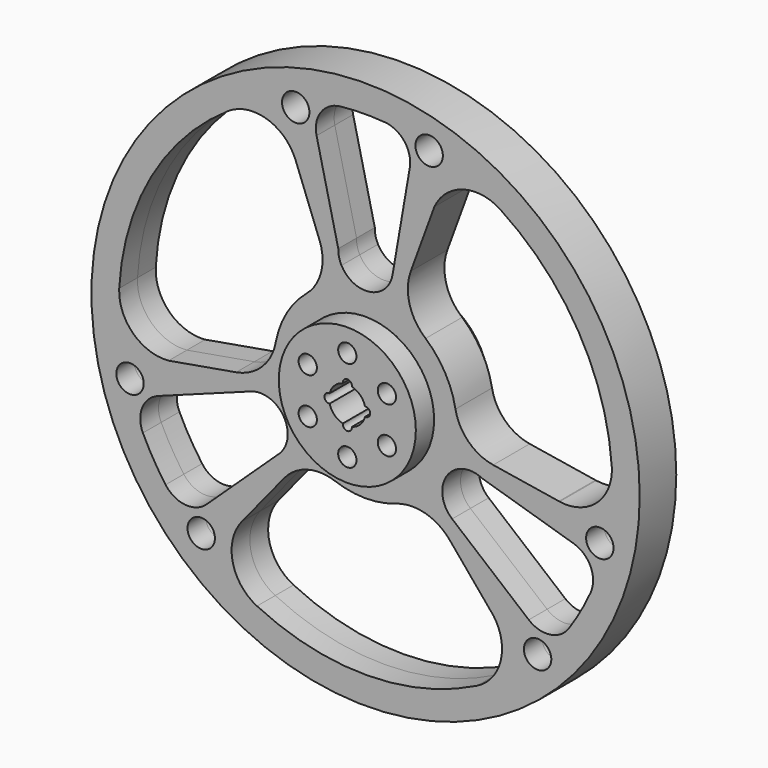
from build123d import *

# Parameters (mm, degrees)
F0_R     = 1524
F0_R_2   = 76.2
F0_R_3   = 381
F1_DEPTH = 127
F0_R_4   = 50.8
F2_DEPTH = 254


with BuildPart() as f1:
    # F0 (on Front) → F1 (new body, symmetric)
    with BuildSketch(Plane.XZ):
        Circle(F0_R)
        with Locations((-913.7882791616, -976.0271380313)):
            Circle(F0_R_2, mode=Mode.SUBTRACT)
        with BuildLine():
            Line((-1153.0000991885, -382.0383786569), (-637.8959878509, -192.4014305637))
            ThreePointArc((-637.8959878509, -192.4014305637), (-457.0555696443, -252.9952118294), (-476.9770278298, -442.6738840331))
            ThreePointArc((-476.9770278298, -442.6738840331), (-480.8973671556, -446.4915773818), (-484.9522358945, -450.1660681551))
            Line((-484.9522358945, -450.1660681551), (-883.9591266607, -825.0068330969))
            ThreePointArc((-883.9591266607, -825.0068330969), (-1002.8402419306, -865.6379881525), (-1111.8443054894, -803.1742029914))
            ThreePointArc((-1111.8443054894, -803.1742029914), (-1179.6622045577, -699.7739943281), (-1237.8919513009, -590.6861069167))
            ThreePointArc((-1237.8919513009, -590.6861069167), (-1241.5115221698, -467.6197173586), (-1153.0000991885, -382.0383786569))
        make_face(mode=Mode.SUBTRACT)
        with Locations((-1309.5730875171, -348.1148742014)):
            Circle(F0_R_2, mode=Mode.SUBTRACT)
        with BuildLine():
            ThreePointArc((620.3459899279, -1223.2977612913), (9.3222607446, -1371.5683196453), (-603.6604512768, -1231.6170750539))
            ThreePointArc((-603.6604512768, -1231.6170750539), (-738.7746568168, -1060.2882924915), (-689.7021623495, -847.6823411172))
            ThreePointArc((-689.7021623495, -847.6823411172), (-688.3005999681, -845.9440823447), (-686.8837042593, -844.2182992703))
            Line((-686.8837042593, -844.2182992703), (-453.4108080554, -557.2671165057))
            ThreePointArc((-453.4108080554, -557.2671165057), (-324.704195778, -472.9319451606), (-170.9247530325, -478.3813633502))
            ThreePointArc((-170.9247530325, -478.3813633502), (-3.2290207935, -507.9897375191), (164.8295547947, -480.5155750506))
            ThreePointArc((164.8295547947, -480.5155750506), (329.3174151887, -472.2872831018), (468.2689097092, -560.6979339074))
            Line((468.2689097092, -560.6979339074), (712.5486648746, -853.1947261923))
            ThreePointArc((712.5486648746, -853.1947261923), (751.0159442205, -1059.3145732279), (620.3459899279, -1223.2977612913))
        make_face(mode=Mode.SUBTRACT)
        with Locations((956.2628682522, -960.0661248015)):
            Circle(F0_R_2, mode=Mode.SUBTRACT)
        with BuildLine():
            ThreePointArc((1251.4914161996, -561.2983121112), (1195.8531582748, -671.7304398673), (1130.4951499029, -776.7028235085))
            ThreePointArc((1130.4951499029, -776.7028235085), (1025.7263156279, -841.3706586108), (907.3549907317, -807.5081871347))
            Line((907.3549907317, -807.5081871347), (481.1232000729, -452.5278699292))
            ThreePointArc((481.1232000729, -452.5278699292), (428.3503888965, -360.6203892324), (448.26366908, -256.5270855102))
            ThreePointArc((448.26366908, -256.5270855102), (511.6872076627, -198.5230648264), (596.4093179928, -184.0601576825))
            ThreePointArc((596.4093179928, -184.0601576825), (622.672411721, -189.518002639), (647.5717696697, -199.495985275))
            Line((647.5717696697, -199.495985275), (1156.456439088, -353.0276430469))
            ThreePointArc((1156.456439088, -353.0276430469), (1251.0846091862, -435.666131373), (1251.4914161996, -561.2983121112))
        make_face(mode=Mode.SUBTRACT)
        with Locations((1302.1584358989, -303.3502944188)):
            Circle(F0_R_2, mode=Mode.SUBTRACT)
        with BuildLine():
            ThreePointArc((-1095.1626396947, -190.487882118), (-1292.9013031247, -120.7415997281), (-1369.5799326349, 74.4134942323))
            ThreePointArc((-1369.5799326349, 74.4134942323), (-1192.474138211, 677.7108451972), (-764.781449093, 1138.5938235926))
            ThreePointArc((-764.781449093, 1138.5938235926), (-548.8492682245, 1169.9417667212), (-389.2633605722, 1021.1407641984))
            ThreePointArc((-389.2633605722, 1021.1407641984), (-388.4587655076, 1019.0578461848), (-387.6726413781, 1016.9678869693))
            Line((-387.6726413781, 1016.9678869693), (-255.9020755599, 671.2988363793))
            ThreePointArc((-255.9020755599, 671.2988363793), (-247.2189808812, 517.6680548394), (-328.8280368421, 387.2158599368))
            ThreePointArc((-328.8280368421, 387.2158599368), (-438.3175071566, 256.7912827961), (-498.5534723052, 97.5112057786))
            ThreePointArc((-498.5534723052, 97.5112057786), (-573.6714926448, -49.0536059111), (-719.7131094679, -125.1838046569))
            Line((-719.7131094679, -125.1838046569), (-1095.1626396947, -190.487882118))
        make_face(mode=Mode.SUBTRACT)
        with BuildLine():
            Line((245.6451084567, 1189.5465657916), (149.8323580408, 634.1958560646))
            ThreePointArc((149.8323580408, 634.1958560646), (24.267285494, 509.9490824711), (-134.0529545691, 588.2979802197))
            ThreePointArc((-134.0529545691, 588.2979802197), (-148.0218367106, 625.2968594187), (-151.9762946798, 664.6466877847))
            Line((-151.9762946798, 664.6466877847), (-272.4973124273, 1178.0344761437))
            ThreePointArc((-272.4973124273, 1178.0344761437), (-248.2443672556, 1301.3041195255), (-139.6471107102, 1364.4725151026))
            ThreePointArc((-139.6471107102, 1364.4725151026), (-16.190953717, 1371.5044341954), (107.396801398, 1367.3889304252))
            ThreePointArc((107.396801398, 1367.3889304252), (215.7852065418, 1308.9903759694), (245.6451084567, 1189.5465657916))
        make_face(mode=Mode.SUBTRACT)
        with Locations((-388.3701567373, 1279.3774324501)):
            Circle(F0_R_2, mode=Mode.SUBTRACT)
        Circle(F0_R_3, mode=Mode.SUBTRACT)
        with BuildLine():
            ThreePointArc((382.6139748201, 1043.6826083102), (541.8853589042, 1180.056172956), (749.233942707, 1148.884267059))
            ThreePointArc((749.233942707, 1148.884267059), (1183.1518774665, 693.8574744481), (1368.4419003697, 93.0232514613))
            ThreePointArc((1368.4419003697, 93.0232514613), (1287.6239250413, -109.6534742297), (1078.9655229217, -173.4584230812))
            ThreePointArc((1078.9655229217, -173.4584230812), (1076.7593654757, -173.1137638401), (1074.5563456375, -172.749587699))
            Line((1074.5563456375, -172.749587699), (709.3128836153, -114.0317198736))
            ThreePointArc((709.3128836153, -114.0317198736), (571.9231766592, -44.7361096789), (499.7527898745, 91.1655034134))
            ThreePointArc((499.7527898745, 91.1655034134), (441.5465279501, 251.198454723), (333.7239175105, 383.004369272))
            ThreePointArc((333.7239175105, 383.004369272), (244.3540774561, 521.3408890129), (251.4441997587, 685.8817385643))
            Line((251.4441997587, 685.8817385643), (382.6139748201, 1043.6826083102))
        make_face(mode=Mode.SUBTRACT)
        with Locations((353.3102192649, 1308.180999003)):
            Circle(F0_R_2, mode=Mode.SUBTRACT)
    extrude(amount=F1_DEPTH, both=True)

    # F0 (on Front) → F2 (join, symmetric)
    with BuildSketch(Plane.XZ):
        Circle(F0_R_3)
        with Locations((-219.9704525612, -127)):
            Circle(F0_R_4, mode=Mode.SUBTRACT)
        with Locations((0, -254)):
            Circle(F0_R_4, mode=Mode.SUBTRACT)
        with Locations((219.9704525612, -127)):
            Circle(F0_R_4, mode=Mode.SUBTRACT)
        with Locations((-219.9704525612, 127)):
            Circle(F0_R_4, mode=Mode.SUBTRACT)
        with BuildLine():
            ThreePointArc((25.2007812379, 98.425), (71.8420489686, 71.8420489686), (98.425, 25.2007812379))
            ThreePointArc((98.425, 25.2007812379), (127, 0), (98.425, -25.2007812379))
            ThreePointArc((98.425, -25.2007812379), (71.8420489686, -71.8420489686), (25.2007812379, -98.425))
            ThreePointArc((25.2007812379, -98.425), (0, -127), (-25.2007812379, -98.425))
            ThreePointArc((-25.2007812379, -98.425), (-71.8420489686, -71.8420489686), (-98.425, -25.2007812379))
            ThreePointArc((-98.425, -25.2007812379), (-127, 0), (-98.425, 25.2007812379))
            ThreePointArc((-98.425, 25.2007812379), (-71.8420489686, 71.8420489686), (-25.2007812379, 98.425))
            ThreePointArc((-25.2007812379, 98.425), (0, 127), (25.2007812379, 98.425))
        make_face(mode=Mode.SUBTRACT)
        with Locations((219.9704525612, 127)):
            Circle(F0_R_4, mode=Mode.SUBTRACT)
        with Locations((0, 254)):
            Circle(F0_R_4, mode=Mode.SUBTRACT)
    extrude(amount=F2_DEPTH, both=True)


solid = f1.part
